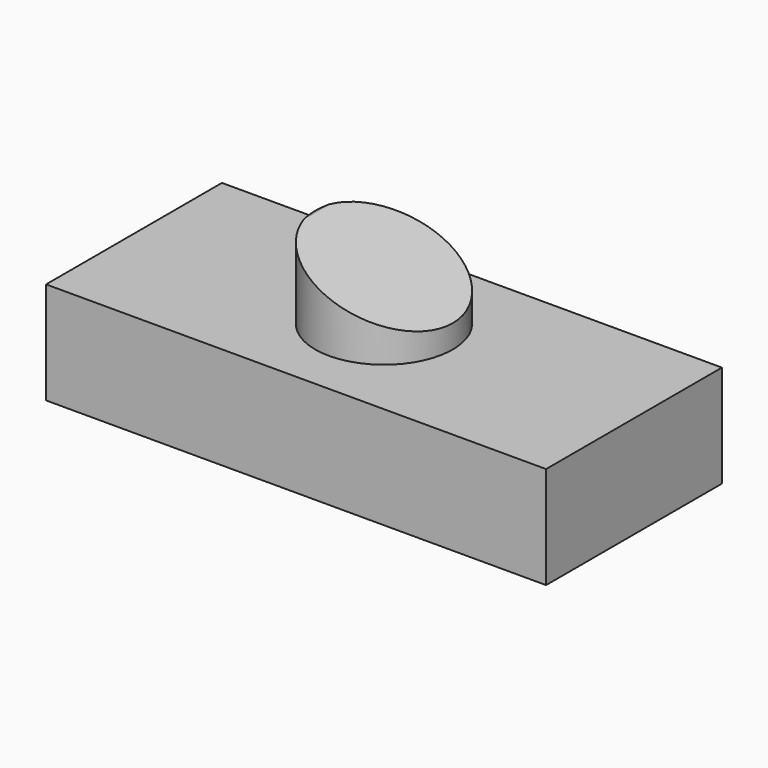
from build123d import *

# Parameters (mm, degrees)
F0_W     = 124.2932081223
F0_H     = 54.6409748495
F1_DEPTH = 25.4
F2_W     = 17.1128325164
F2_H     = 19.2144084722


with BuildPart() as f1:
    # F0 (on Top) → F1 (new body)
    with BuildSketch(Plane.XY):
        Rectangle(F0_W, F0_H)
    extrude(amount=F1_DEPTH)


with BuildPart() as f3:
    # F2 (on Front) → F3 (revolve)
    with BuildSketch(Plane.XZ):
        with Locations((-8.5564162582, 35.4265673086)):
            Rectangle(F2_W, F2_H)
    revolve(axis=Axis((0, 0, 35.4265673086), (0, 0, 1)))

    # F4 (on Front) → F5 (revolve, cut)
    with BuildSketch(Plane.XZ):
        Polygon((-6.151519385, 77.976520624), (-18.9141836017, 45.9344498813), (23.8189133723, 28.9134473375), (36.5815775891, 60.9555180802), align=None)
    revolve(axis=Axis((-12.5328514934, 0, 61.9554852527), (-0.3700364751, 0, -0.9290172265)), mode=Mode.SUBTRACT)


solid = Compound([f1.part, f3.part])
